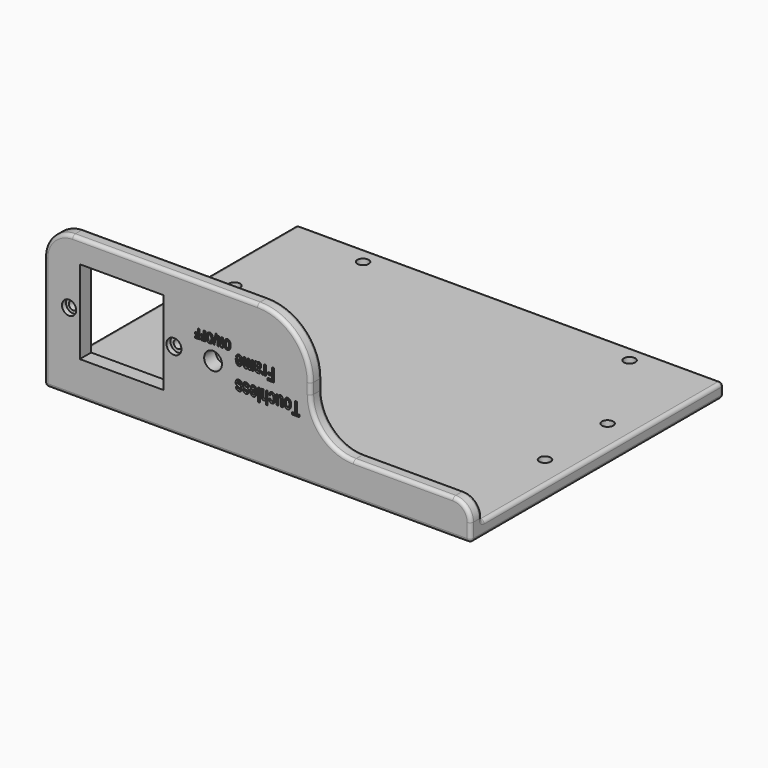
from build123d import *

# Parameters (mm, degrees)
SKETCH_W                      = 120
SKETCH_H                      = 85
PAD_DEPTH                     = 4
SKETCH001_R                   = 1.6
POCKET_DEPTH                  = 4
SKETCH001_MIRRORED_2_R        = 1.6
POCKET_MIRRORED_2_DEPTH       = 4
SKETCH002_R                   = 1.6
POCKET001_DEPTH               = 4
SKETCH002_MIRRORED002_2_R     = 1.6
POCKET001_MIRRORED002_2_DEPTH = 4
SKETCH003_W                   = 75
SKETCH003_H                   = 4
PAD001_DEPTH                  = 40
SKETCH004_W                   = 45
SKETCH004_H                   = 4
PAD002_DEPTH                  = 10
SKETCH005_R                   = 1.2
SKETCH005_W                   = 23.5
SKETCH005_H                   = 23.5
POCKET002_DEPTH               = 4
SKETCH006_R                   = 2
SKETCH006_R_2                 = 2.1
POCKET003_DEPTH               = 1.4
SKETCH007_R                   = 2.5
POCKET004_DEPTH               = 4
POCKET005_DEPTH               = 0.75
POCKET006_DEPTH               = 0.75
FILLET_R                      = 8
FILLET001_R                   = 15
FILLET002_R                   = 12
FILLET003_R                   = 5
FILLET004_R                   = 0.75
FILLET005_R                   = 1


with BuildPart() as part:
    # Sketch → Pad (new body)
    with BuildSketch(Plane.XY):
        with Locations((60, 42.5)):
            Rectangle(SKETCH_W, SKETCH_H)
    extrude(amount=PAD_DEPTH)

    # Sketch001 → Pocket (cut)
    with BuildSketch(Plane.XY):
        with Locations((7.5, 31.5)):
            Circle(SKETCH001_R)
    pocket = extrude(amount=POCKET_DEPTH, mode=Mode.SUBTRACT)

    # Sketch001 Mirrored 2 → Pocket Mirrored 2 (cut)
    with BuildSketch(Plane(origin=(0, 85, 0), x_dir=(1, 0, 0), z_dir=(0, 0, -1))):
        with Locations((7.5, 31.5)):
            Circle(SKETCH001_MIRRORED_2_R)
    pocket_mirrored_2 = extrude(amount=-POCKET_MIRRORED_2_DEPTH, mode=Mode.SUBTRACT)

    # Mirrored001: Pocket, Pocket Mirrored 2 across face of Plane
    add(pocket.mirror(Plane(origin=(60, 47.5, 5), x_dir=(0, 1, 0), z_dir=(1, 0, 0))), mode=Mode.SUBTRACT)
    add(pocket_mirrored_2.mirror(Plane(origin=(60, 47.5, 5), x_dir=(0, 1, 0), z_dir=(1, 0, 0))), mode=Mode.SUBTRACT)

    # Sketch002 → Pocket001 (cut)
    with BuildSketch(Plane.XY):
        with Locations((22.5, 5)):
            Circle(SKETCH002_R)
    pocket001 = extrude(amount=POCKET001_DEPTH, mode=Mode.SUBTRACT)

    # Sketch002 Mirrored002 2 → Pocket001 Mirrored002 2 (cut)
    with BuildSketch(Plane(origin=(0, 85, 0), x_dir=(1, 0, 0), z_dir=(0, 0, -1))):
        with Locations((22.5, 5)):
            Circle(SKETCH002_MIRRORED002_2_R)
    pocket001_mirrored002_2 = extrude(amount=-POCKET001_MIRRORED002_2_DEPTH, mode=Mode.SUBTRACT)

    # Mirrored003: Pocket001, Pocket001 Mirrored002 2 across face of Plane
    add(pocket001.mirror(Plane(origin=(60, 47.5, 5), x_dir=(0, 1, 0), z_dir=(1, 0, 0))), mode=Mode.SUBTRACT)
    add(pocket001_mirrored002_2.mirror(Plane(origin=(60, 47.5, 5), x_dir=(0, 1, 0), z_dir=(1, 0, 0))), mode=Mode.SUBTRACT)

    # Sketch003 → Pad001 (join)
    with BuildSketch(Plane.XY):
        with Locations((37.5, -2)):
            Rectangle(SKETCH003_W, SKETCH003_H)
    extrude(amount=PAD001_DEPTH)

    # Sketch004 → Pad002 (join)
    with BuildSketch(Plane.XY):
        with Locations((97.5, -2)):
            Rectangle(SKETCH004_W, SKETCH004_H)
    extrude(amount=PAD002_DEPTH)

    # Sketch005 → Pocket002 (cut)
    with BuildSketch(Plane.XZ):
        with Locations((36.5, 21.75)):
            Circle(SKETCH005_R)
        with Locations((7, 21.75)):
            Circle(SKETCH005_R)
        with Locations((21.75, 21.75)):
            Rectangle(SKETCH005_W, SKETCH005_H)
    extrude(amount=POCKET002_DEPTH, mode=Mode.SUBTRACT)

    # Sketch006 (on Plane) → Pocket003 (cut)
    with BuildSketch(Plane.ZX.offset(-4)):
        with Locations((21.75, 7)):
            Circle(SKETCH006_R)
        with Locations((21.75, 36.5)):
            Circle(SKETCH006_R_2)
    extrude(amount=POCKET003_DEPTH, mode=Mode.SUBTRACT)

    # Sketch007 → Pocket004 (cut)
    with BuildSketch(Plane.XZ):
        with Locations((47.5, 21.75)):
            Circle(SKETCH007_R)
    extrude(amount=POCKET004_DEPTH, mode=Mode.SUBTRACT)

    # Sketch016 (on Plane) → Pocket005 (cut, symmetric)
    with BuildSketch(Plane.ZX.offset(-4)):
        with BuildLine():
            add(Edge.make_bspline(
                [(25.813458, 43.670307), (25.813458, 42.443481)],
                knots=[0, 0, 5.36916, 5.36916], degree=1))
            add(Edge.make_bspline(
                [(25.813458, 42.443481), (26.323984, 42.443481)],
                knots=[0, 0, 1.503779, 1.503779], degree=1))
            add(Edge.make_bspline(
                [(26.323984, 42.443481), (26.323984, 43.215709)],
                knots=[0, 0, 3.37963, 3.37963], degree=1))
            add(Edge.make_bspline(
                [(26.323984, 43.215709), (26.811703, 43.215709)],
                knots=[0, 0, 1.4366, 1.4366], degree=1))
            add(Edge.make_bspline(
                [(26.811703, 43.215709), (26.811703, 42.489531)],
                knots=[0, 0, 3.17809, 3.17809], degree=1))
            add(Edge.make_bspline(
                [(26.811703, 42.489531), (27.322229, 42.489531)],
                knots=[0, 0, 1.50378, 1.50378], degree=1))
            add(Edge.make_bspline(
                [(27.322229, 42.489531), (27.322229, 43.215709)],
                knots=[0, 0, 3.17809, 3.17809], degree=1))
            add(Edge.make_bspline(
                [(27.322229, 43.215709), (28.432756, 43.215709)],
                knots=[0, 0, 3.271111, 3.271111], degree=1))
            add(Edge.make_bspline(
                [(28.432756, 43.215709), (28.432756, 43.670307)],
                knots=[0, 0, 1.98953, 1.98953], degree=1))
            add(Edge.make_bspline(
                [(28.432756, 43.670307), (25.813458, 43.670307)],
                knots=[0, 0, 7.71527, 7.71527], degree=1))
        make_face()
        with BuildLine():
            add(Edge.make_bspline(
                [(25.76609, 46.572658), (25.76609, 46.147577), (26.127493, 45.9067)],
                knots=[0, 0, 0, 1, 1, 1], degree=2))
            add(Edge.make_bspline(
                [(26.127493, 45.9067), (26.488896, 45.66582), (27.125738, 45.66582)],
                knots=[0, 0, 0, 1, 1, 1], degree=2))
            add(Edge.make_bspline(
                [(27.125738, 45.66582), (27.760825, 45.66582), (28.122229, 45.9067)],
                knots=[0, 0, 0, 1, 1, 1], degree=2))
            add(Edge.make_bspline(
                [(28.122229, 45.9067), (28.483633, 46.147577), (28.483633, 46.572658)],
                knots=[0, 0, 0, 1, 1, 1], degree=2))
            add(Edge.make_bspline(
                [(28.483633, 46.572658), (28.483633, 46.996557), (28.122229, 47.238615)],
                knots=[0, 0, 0, 1, 1, 1], degree=2))
            add(Edge.make_bspline(
                [(28.122229, 47.238615), (27.760825, 47.479495), (27.125738, 47.479495)],
                knots=[0, 0, 0, 1, 1, 1], degree=2))
            add(Edge.make_bspline(
                [(27.125738, 47.479495), (26.488896, 47.479495), (26.127493, 47.238615)],
                knots=[0, 0, 0, 1, 1, 1], degree=2))
            add(Edge.make_bspline(
                [(26.127493, 47.238615), (25.76609, 46.996557), (25.76609, 46.572658)],
                knots=[0, 0, 0, 1, 1, 1], degree=2))
        make_face()
        with BuildLine():
            add(Edge.make_bspline(
                [(26.255563, 46.572658), (26.255563, 46.780474), (26.483633, 46.895009)],
                knots=[0, 0, 0, 1, 1, 1], degree=2))
            add(Edge.make_bspline(
                [(26.483633, 46.895009), (26.711703, 47.009545), (27.125738, 47.009545)],
                knots=[0, 0, 0, 1, 1, 1], degree=2))
            add(Edge.make_bspline(
                [(27.125738, 47.009545), (27.538019, 47.009545), (27.766089, 46.895009)],
                knots=[0, 0, 0, 1, 1, 1], degree=2))
            add(Edge.make_bspline(
                [(27.766089, 46.895009), (27.994159, 46.780474), (27.994159, 46.572658)],
                knots=[0, 0, 0, 1, 1, 1], degree=2))
            add(Edge.make_bspline(
                [(27.994159, 46.572658), (27.994159, 46.36366), (27.766089, 46.249125)],
                knots=[0, 0, 0, 1, 1, 1], degree=2))
            add(Edge.make_bspline(
                [(27.766089, 46.249125), (27.538019, 46.134589), (27.125738, 46.134589)],
                knots=[0, 0, 0, 1, 1, 1], degree=2))
            add(Edge.make_bspline(
                [(27.125738, 46.134589), (26.711703, 46.134589), (26.483633, 46.249125)],
                knots=[0, 0, 0, 1, 1, 1], degree=2))
            add(Edge.make_bspline(
                [(26.483633, 46.249125), (26.255563, 46.36366), (26.255563, 46.572658)],
                knots=[0, 0, 0, 1, 1, 1], degree=2))
        make_face(mode=Mode.SUBTRACT)
        with BuildLine():
            add(Edge.make_bspline(
                [(25.813458, 47.862066), (25.813458, 47.599935)],
                knots=[0, 0, 1.14721, 1.14721], degree=1))
            add(Edge.make_bspline(
                [(25.813458, 47.599935), (28.76609, 48.222202)],
                knots=[0, 0, 9.11353, 9.11353], degree=1))
            add(Edge.make_bspline(
                [(28.76609, 48.222202), (28.76609, 48.483155)],
                knots=[0, 0, 1.14205, 1.14205], degree=1))
            add(Edge.make_bspline(
                [(28.76609, 48.483155), (25.813458, 47.862066)],
                knots=[0, 0, 9.111989, 9.111989], degree=1))
        make_face()
        with BuildLine():
            add(Edge.make_bspline(
                [(25.813458, 45.323395), (25.813458, 44.096569)],
                knots=[0, 0, 5.36916, 5.36916], degree=1))
            add(Edge.make_bspline(
                [(25.813458, 44.096569), (26.323984, 44.096569)],
                knots=[0, 0, 1.503779, 1.503779], degree=1))
            add(Edge.make_bspline(
                [(26.323984, 44.096569), (26.323984, 44.868795)],
                knots=[0, 0, 3.37962, 3.37962], degree=1))
            add(Edge.make_bspline(
                [(26.323984, 44.868795), (26.811703, 44.868795)],
                knots=[0, 0, 1.4366, 1.4366], degree=1))
            add(Edge.make_bspline(
                [(26.811703, 44.868795), (26.811703, 44.142618)],
                knots=[0, 0, 3.17809, 3.17809], degree=1))
            add(Edge.make_bspline(
                [(26.811703, 44.142618), (27.322229, 44.142618)],
                knots=[0, 0, 1.50378, 1.50378], degree=1))
            add(Edge.make_bspline(
                [(27.322229, 44.142618), (27.322229, 44.868795)],
                knots=[0, 0, 3.17809, 3.17809], degree=1))
            add(Edge.make_bspline(
                [(27.322229, 44.868795), (28.432756, 44.868795)],
                knots=[0, 0, 3.271111, 3.271111], degree=1))
            add(Edge.make_bspline(
                [(28.432756, 44.868795), (28.432756, 45.323395)],
                knots=[0, 0, 1.98954, 1.98954], degree=1))
            add(Edge.make_bspline(
                [(28.432756, 45.323395), (25.813458, 45.323395)],
                knots=[0, 0, 7.71527, 7.71527], degree=1))
        make_face()
        with BuildLine():
            add(Edge.make_bspline(
                [(25.813458, 50.287382), (25.813458, 49.779648)],
                knots=[0, 0, 2.222079, 2.222079], degree=1))
            add(Edge.make_bspline(
                [(25.813458, 49.779648), (27.609948, 49.138486)],
                knots=[0, 0, 5.9896, 5.9896], degree=1))
            add(Edge.make_bspline(
                [(27.609948, 49.138486), (25.813458, 49.138486)],
                knots=[0, 0, 5.291649, 5.291649], degree=1))
            add(Edge.make_bspline(
                [(25.813458, 49.138486), (25.813458, 48.707502)],
                knots=[0, 0, 1.886183, 1.886183], degree=1))
            add(Edge.make_bspline(
                [(25.813458, 48.707502), (28.432756, 48.707502)],
                knots=[0, 0, 7.71527, 7.71527], degree=1))
            add(Edge.make_bspline(
                [(28.432756, 48.707502), (28.432756, 49.215236)],
                knots=[0, 0, 2.222078, 2.222078], degree=1))
            add(Edge.make_bspline(
                [(28.432756, 49.215236), (26.636265, 49.856398)],
                knots=[0, 0, 5.989604, 5.989604], degree=1))
            add(Edge.make_bspline(
                [(26.636265, 49.856398), (28.432756, 49.856398)],
                knots=[0, 0, 5.291653, 5.291653], degree=1))
            add(Edge.make_bspline(
                [(28.432756, 49.856398), (28.432756, 50.287382)],
                knots=[0, 0, 1.886183, 1.886183], degree=1))
            add(Edge.make_bspline(
                [(28.432756, 50.287382), (25.813458, 50.287382)],
                knots=[0, 0, 7.71527, 7.71527], degree=1))
        make_face()
        with BuildLine():
            add(Edge.make_bspline(
                [(25.76609, 51.536644), (25.76609, 51.111564), (26.127493, 50.870686)],
                knots=[0, 0, 0, 1, 1, 1], degree=2))
            add(Edge.make_bspline(
                [(26.127493, 50.870686), (26.488896, 50.629807), (27.125738, 50.629807)],
                knots=[0, 0, 0, 1, 1, 1], degree=2))
            add(Edge.make_bspline(
                [(27.125738, 50.629807), (27.760825, 50.629807), (28.122229, 50.870686)],
                knots=[0, 0, 0, 1, 1, 1], degree=2))
            add(Edge.make_bspline(
                [(28.122229, 50.870686), (28.483633, 51.111564), (28.483633, 51.536644)],
                knots=[0, 0, 0, 1, 1, 1], degree=2))
            add(Edge.make_bspline(
                [(28.483633, 51.536644), (28.483633, 51.960543), (28.122229, 52.202602)],
                knots=[0, 0, 0, 1, 1, 1], degree=2))
            add(Edge.make_bspline(
                [(28.122229, 52.202602), (27.760825, 52.443481), (27.125738, 52.443481)],
                knots=[0, 0, 0, 1, 1, 1], degree=2))
            add(Edge.make_bspline(
                [(27.125738, 52.443481), (26.488896, 52.443481), (26.127493, 52.202602)],
                knots=[0, 0, 0, 1, 1, 1], degree=2))
            add(Edge.make_bspline(
                [(26.127493, 52.202602), (25.76609, 51.960543), (25.76609, 51.536644)],
                knots=[0, 0, 0, 1, 1, 1], degree=2))
        make_face()
        with BuildLine():
            add(Edge.make_bspline(
                [(26.255563, 51.536644), (26.255563, 51.744461), (26.483633, 51.858996)],
                knots=[0, 0, 0, 1, 1, 1], degree=2))
            add(Edge.make_bspline(
                [(26.483633, 51.858996), (26.711703, 51.973531), (27.125738, 51.973531)],
                knots=[0, 0, 0, 1, 1, 1], degree=2))
            add(Edge.make_bspline(
                [(27.125738, 51.973531), (27.538019, 51.973531), (27.766089, 51.858996)],
                knots=[0, 0, 0, 1, 1, 1], degree=2))
            add(Edge.make_bspline(
                [(27.766089, 51.858996), (27.994159, 51.744461), (27.994159, 51.536644)],
                knots=[0, 0, 0, 1, 1, 1], degree=2))
            add(Edge.make_bspline(
                [(27.994159, 51.536644), (27.994159, 51.327646), (27.766089, 51.213111)],
                knots=[0, 0, 0, 1, 1, 1], degree=2))
            add(Edge.make_bspline(
                [(27.766089, 51.213111), (27.538019, 51.098576), (27.125738, 51.098576)],
                knots=[0, 0, 0, 1, 1, 1], degree=2))
            add(Edge.make_bspline(
                [(27.125738, 51.098576), (26.711703, 51.098576), (26.483633, 51.213111)],
                knots=[0, 0, 0, 1, 1, 1], degree=2))
            add(Edge.make_bspline(
                [(26.483633, 51.213111), (26.255563, 51.327646), (26.255563, 51.536644)],
                knots=[0, 0, 0, 1, 1, 1], degree=2))
        make_face(mode=Mode.SUBTRACT)
    extrude(amount=POCKET005_DEPTH, both=True, mode=Mode.SUBTRACT)

    # Sketch035 (on Plane) → Pocket006 (cut, symmetric)
    with BuildSketch(Plane.ZX.offset(-4)):
        with BuildLine():
            add(Edge.make_bspline(
                [(16.309168, 70.507222), (19.32615, 70.507222)],
                knots=[0, 0, 3.0385, 3.0385], degree=1))
            add(Edge.make_bspline(
                [(19.32615, 70.507222), (19.32615, 71.05441)],
                knots=[0, 0, 0.7546, 0.7546], degree=1))
            add(Edge.make_bspline(
                [(19.32615, 71.05441), (16.309168, 71.05441)],
                knots=[0, 0, 3.0385, 3.0385], degree=1))
            add(Edge.make_bspline(
                [(16.309168, 71.05441), (16.309168, 71.860594)],
                knots=[0, 0, 1.11177, 1.11177], degree=1))
            add(Edge.make_bspline(
                [(16.309168, 71.860594), (15.684792, 71.860594)],
                knots=[0, 0, 0.628829, 0.628829], degree=1))
            add(Edge.make_bspline(
                [(15.684792, 71.860594), (15.684792, 69.730224)],
                knots=[0, 0, 2.93789, 2.93789], degree=1))
            add(Edge.make_bspline(
                [(15.684792, 69.730224), (16.309168, 69.730224)],
                knots=[0, 0, 0.628829, 0.628829], degree=1))
            add(Edge.make_bspline(
                [(16.309168, 69.730224), (16.309168, 70.507222)],
                knots=[0, 0, 1.07152, 1.07152], degree=1))
        make_face()
        with BuildLine():
            add(Edge.make_bspline(
                [(24.001474, 64.091726), (25.569905, 64.091726)],
                knots=[0, 0, 1.579618, 1.579618], degree=1))
            add(Edge.make_bspline(
                [(25.569905, 64.091726), (25.569905, 64.63891)],
                knots=[0, 0, 0.754594, 0.754594], degree=1))
            add(Edge.make_bspline(
                [(25.569905, 64.63891), (21.928547, 64.63891)],
                knots=[0, 0, 3.66733, 3.66733], degree=1))
            add(Edge.make_bspline(
                [(21.928547, 64.63891), (21.928547, 62.77119)],
                knots=[0, 0, 2.575682, 2.575682], degree=1))
            add(Edge.make_bspline(
                [(21.928547, 62.77119), (22.552922, 62.77119)],
                knots=[0, 0, 0.628829, 0.628829], degree=1))
            add(Edge.make_bspline(
                [(22.552922, 62.77119), (22.552922, 64.091726)],
                knots=[0, 0, 1.821088, 1.821088], degree=1))
            add(Edge.make_bspline(
                [(22.552922, 64.091726), (23.377098, 64.091726)],
                knots=[0, 0, 0.830054, 0.830054], degree=1))
            add(Edge.make_bspline(
                [(23.377098, 64.091726), (23.377098, 62.928049)],
                knots=[0, 0, 1.604771, 1.604771], degree=1))
            add(Edge.make_bspline(
                [(23.377098, 62.928049), (24.001474, 62.928049)],
                knots=[0, 0, 0.628829, 0.628829], degree=1))
            add(Edge.make_bspline(
                [(24.001474, 62.928049), (24.001474, 64.091726)],
                knots=[0, 0, 1.604771, 1.604771], degree=1))
        make_face()
        with BuildLine():
            add(Edge.make_bspline(
                [(22.827648, 54.803), (22.827648, 54.675323), (22.867603, 54.554943)],
                knots=[0, 0, 0, 1, 1, 1], degree=2))
            add(Edge.make_bspline(
                [(22.867603, 54.554943), (22.907558, 54.434563), (23.012458, 54.310534)],
                knots=[0, 0, 0, 1, 1, 1], degree=2))
            add(Edge.make_bspline(
                [(23.012458, 54.310534), (23.117353, 54.182858), (23.282188, 54.091661)],
                knots=[0, 0, 0, 1, 1, 1], degree=2))
            add(Edge.make_bspline(
                [(23.282188, 54.091661), (23.442028, 53.996816), (23.711758, 53.93845)],
                knots=[0, 0, 0, 1, 1, 1], degree=2))
            add(Edge.make_bspline(
                [(23.711758, 53.93845), (23.976494, 53.880083), (24.321149, 53.880083)],
                knots=[0, 0, 0, 1, 1, 1], degree=2))
            add(Edge.make_bspline(
                [(24.321149, 53.880083), (24.381091, 53.880083), (24.441029, 53.883709)],
                knots=[0, 0, 0, 1, 1, 1], degree=2))
            add(Edge.make_bspline(
                [(24.441029, 53.883709), (24.441029, 55.204245)],
                knots=[0, 0, 1.821088, 1.821088], degree=1))
            add(Edge.make_bspline(
                [(24.441029, 55.204245), (24.595875, 55.20062), (24.710759, 55.186008)],
                knots=[0, 0, 0, 1, 1, 1], degree=2))
            add(Edge.make_bspline(
                [(24.710759, 55.186008), (24.820649, 55.167771), (24.93054, 55.127642)],
                knots=[0, 0, 0, 1, 1, 1], degree=2))
            add(Edge.make_bspline(
                [(24.93054, 55.127642), (25.035434, 55.083866), (25.095375, 55.003613)],
                knots=[0, 0, 0, 1, 1, 1], degree=2))
            add(Edge.make_bspline(
                [(25.095375, 55.003613), (25.150323, 54.919712), (25.150323, 54.795683)],
                knots=[0, 0, 0, 1, 1, 1], degree=2))
            add(Edge.make_bspline(
                [(25.150323, 54.795683), (25.150323, 54.503853), (24.810663, 54.405359)],
                knots=[0, 0, 0, 1, 1, 1], degree=2))
            add(Edge.make_bspline(
                [(24.810663, 54.405359), (24.810663, 53.901951)],
                knots=[0, 0, 0.694227, 0.694227], degree=1))
            add(Edge.make_bspline(
                [(24.810663, 53.901951), (25.210263, 53.985852), (25.450023, 54.233908)],
                knots=[0, 0, 0, 1, 1, 1], degree=2))
            add(Edge.make_bspline(
                [(25.450023, 54.233908), (25.684788, 54.481965), (25.684788, 54.813923)],
                knots=[0, 0, 0, 1, 1, 1], degree=2))
            add(Edge.make_bspline(
                [(25.684788, 54.813923), (25.684788, 55.233431), (25.315158, 55.474191)],
                knots=[0, 0, 0, 1, 1, 1], degree=2))
            add(Edge.make_bspline(
                [(25.315158, 55.474191), (24.940532, 55.714952), (24.291183, 55.714952)],
                knots=[0, 0, 0, 1, 1, 1], degree=2))
            add(Edge.make_bspline(
                [(24.291183, 55.714952), (23.611862, 55.714952), (23.222252, 55.470544)],
                knots=[0, 0, 0, 1, 1, 1], degree=2))
            add(Edge.make_bspline(
                [(23.222252, 55.470544), (22.827646, 55.226135), (22.827646, 54.80298)],
                knots=[0, 0, 0, 1, 1, 1], degree=2))
            add(Edge.make_bspline(
                [(22.827646, 54.80298), (22.827648, 54.803)],
                knots=[0, 0, 2.8e-05, 2.8e-05], degree=1))
        make_face()
        with BuildLine():
            add(Edge.make_bspline(
                [(23.976499, 54.412675), (23.681794, 54.430913), (23.521953, 54.533056)],
                knots=[0, 0, 0, 1, 1, 1], degree=2))
            add(Edge.make_bspline(
                [(23.521953, 54.533056), (23.362113, 54.631549), (23.362113, 54.810296)],
                knots=[0, 0, 0, 1, 1, 1], degree=2))
            add(Edge.make_bspline(
                [(23.362113, 54.810296), (23.362113, 55.145902), (23.976499, 55.196972)],
                knots=[0, 0, 0, 1, 1, 1], degree=2))
            add(Edge.make_bspline(
                [(23.976499, 55.196972), (23.976499, 54.412675)],
                knots=[0, 0, 1.081586, 1.081586], degree=1))
        make_face(mode=Mode.SUBTRACT)
        with BuildLine():
            add(Edge.make_bspline(
                [(16.583892, 68.502598), (16.583892, 68.039313), (16.968508, 67.783961)],
                knots=[0, 0, 0, 1, 1, 1], degree=2))
            add(Edge.make_bspline(
                [(16.968508, 67.783961), (17.348129, 67.524961), (18.032444, 67.524961)],
                knots=[0, 0, 0, 1, 1, 1], degree=2))
            add(Edge.make_bspline(
                [(18.032444, 67.524961), (18.681794, 67.524961), (19.061415, 67.787609)],
                knots=[0, 0, 0, 1, 1, 1], degree=2))
            add(Edge.make_bspline(
                [(19.061415, 67.787609), (19.441035, 68.050257), (19.441035, 68.498951)],
                knots=[0, 0, 0, 1, 1, 1], degree=2))
            add(Edge.make_bspline(
                [(19.441035, 68.498951), (19.441035, 68.954931), (19.061415, 69.213935)],
                knots=[0, 0, 0, 1, 1, 1], degree=2))
            add(Edge.make_bspline(
                [(19.061415, 69.213935), (18.676799, 69.472932), (18.012463, 69.472932)],
                knots=[0, 0, 0, 1, 1, 1], degree=2))
            add(Edge.make_bspline(
                [(18.012463, 69.472932), (17.348129, 69.472932), (16.968508, 69.213935)],
                knots=[0, 0, 0, 1, 1, 1], degree=2))
            add(Edge.make_bspline(
                [(16.968508, 69.213935), (16.583892, 68.954931), (16.583892, 68.502598)],
                knots=[0, 0, 0, 1, 1, 1], degree=2))
        make_face()
        with BuildLine():
            add(Edge.make_bspline(
                [(17.148328, 68.498973), (17.148328, 68.706898), (17.388089, 68.834573)],
                knots=[0, 0, 0, 1, 1, 1], degree=2))
            add(Edge.make_bspline(
                [(17.388089, 68.834573), (17.627849, 68.962255), (18.012463, 68.962255)],
                knots=[0, 0, 0, 1, 1, 1], degree=2))
            add(Edge.make_bspline(
                [(18.012463, 68.962255), (18.397079, 68.962255), (18.636839, 68.834573)],
                knots=[0, 0, 0, 1, 1, 1], degree=2))
            add(Edge.make_bspline(
                [(18.636839, 68.834573), (18.876599, 68.706898), (18.876599, 68.498973)],
                knots=[0, 0, 0, 1, 1, 1], degree=2))
            add(Edge.make_bspline(
                [(18.876599, 68.498973), (18.876599, 68.294687), (18.641835, 68.167013)],
                knots=[0, 0, 0, 1, 1, 1], degree=2))
            add(Edge.make_bspline(
                [(18.641835, 68.167013), (18.402075, 68.035688), (18.022454, 68.035688)],
                knots=[0, 0, 0, 1, 1, 1], degree=2))
            add(Edge.make_bspline(
                [(18.022454, 68.035688), (17.622853, 68.035688), (17.388089, 68.163365)],
                knots=[0, 0, 0, 1, 1, 1], degree=2))
            add(Edge.make_bspline(
                [(17.388089, 68.163365), (17.148328, 68.287393), (17.148328, 68.498973)],
                knots=[0, 0, 0, 1, 1, 1], degree=2))
        make_face(mode=Mode.SUBTRACT)
        with BuildLine():
            add(Edge.make_bspline(
                [(15.684792, 60.15742), (19.32615, 60.15742)],
                knots=[0, 0, 3.667329, 3.667329], degree=1))
            add(Edge.make_bspline(
                [(19.32615, 60.15742), (19.32615, 60.668124)],
                knots=[0, 0, 0.704288, 0.704288], degree=1))
            add(Edge.make_bspline(
                [(19.32615, 60.668124), (15.684792, 60.668124)],
                knots=[0, 0, 3.667329, 3.667329], degree=1))
            add(Edge.make_bspline(
                [(15.684792, 60.668124), (15.684792, 60.15742)],
                knots=[0, 0, 0.704288, 0.704288], degree=1))
        make_face()
        with BuildLine():
            add(Edge.make_bspline(
                [(25.68479, 60.446059), (25.68479, 60.716003), (25.465011, 60.880158)],
                knots=[0, 0, 0, 1, 1, 1], degree=2))
            add(Edge.make_bspline(
                [(25.465011, 60.880158), (25.240235, 61.044312), (24.875599, 61.044312)],
                knots=[0, 0, 0, 1, 1, 1], degree=2))
            add(Edge.make_bspline(
                [(24.875599, 61.044312), (24.161314, 61.044312), (24.026449, 60.464298)],
                knots=[0, 0, 0, 1, 1, 1], degree=2))
            add(Edge.make_bspline(
                [(24.026449, 60.464298), (23.976495, 60.260016)],
                knots=[0, 0, 0.286172, 0.286172], degree=1))
            add(Edge.make_bspline(
                [(23.976495, 60.260016), (23.976495, 60.252721), (23.966506, 60.187058)],
                knots=[0, 0, 0, 1, 1, 1], degree=2))
            add(Edge.make_bspline(
                [(23.966506, 60.187058), (23.951523, 60.121397), (23.946529, 60.103157)],
                knots=[0, 0, 0, 1, 1, 1], degree=2))
            add(Edge.make_bspline(
                [(23.946529, 60.103157), (23.93654, 60.08492), (23.921557, 60.033848)],
                knots=[0, 0, 0, 1, 1, 1], degree=2))
            add(Edge.make_bspline(
                [(23.921557, 60.033848), (23.906574, 59.97913), (23.886596, 59.957243)],
                knots=[0, 0, 0, 1, 1, 1], degree=2))
            add(Edge.make_bspline(
                [(23.886596, 59.957243), (23.866619, 59.935358), (23.836643, 59.906172)],
                knots=[0, 0, 0, 1, 1, 1], degree=2))
            add(Edge.make_bspline(
                [(23.836643, 59.906172), (23.801682, 59.873337), (23.761717, 59.862395)],
                knots=[0, 0, 0, 1, 1, 1], degree=2))
            add(Edge.make_bspline(
                [(23.761717, 59.862395), (23.716758, 59.851453), (23.661816, 59.851453)],
                knots=[0, 0, 0, 1, 1, 1], degree=2))
            add(Edge.make_bspline(
                [(23.661816, 59.851453), (23.392086, 59.851453), (23.392086, 60.146932)],
                knots=[0, 0, 0, 1, 1, 1], degree=2))
            add(Edge.make_bspline(
                [(23.392086, 60.146932), (23.392086, 60.336622), (23.472006, 60.413228)],
                knots=[0, 0, 0, 1, 1, 1], degree=2))
            add(Edge.make_bspline(
                [(23.472006, 60.413228), (23.551926, 60.489834), (23.761717, 60.508074)],
                knots=[0, 0, 0, 1, 1, 1], degree=2))
            add(Edge.make_bspline(
                [(23.761717, 60.508074), (23.761717, 61.000539)],
                knots=[0, 0, 0.679135, 0.679135], degree=1))
            add(Edge.make_bspline(
                [(23.761717, 61.000539), (22.827651, 60.953115), (22.827651, 60.157876)],
                knots=[0, 0, 0, 1, 1, 1], degree=2))
            add(Edge.make_bspline(
                [(22.827651, 60.157876), (22.827651, 59.351692), (23.656821, 59.351692)],
                knots=[0, 0, 0, 1, 1, 1], degree=2))
            add(Edge.make_bspline(
                [(23.656821, 59.351692), (25.155323, 59.351692)],
                knots=[0, 0, 1.50919, 1.50919], degree=1))
            add(Edge.make_bspline(
                [(25.155323, 59.351692), (25.340138, 59.351692), (25.484993, 59.23496)],
                knots=[0, 0, 0, 1, 1, 1], degree=2))
            add(Edge.make_bspline(
                [(25.484993, 59.23496), (25.569907, 59.23496)],
                knots=[0, 0, 0.08552, 0.08552], degree=1))
            add(Edge.make_bspline(
                [(25.569907, 59.23496), (25.569907, 59.789439)],
                knots=[0, 0, 0.764656, 0.764656], degree=1))
            add(Edge.make_bspline(
                [(25.569907, 59.789439), (25.470007, 59.847805), (25.300177, 59.847805)],
                knots=[0, 0, 0, 1, 1, 1], degree=2))
            add(Edge.make_bspline(
                [(25.300177, 59.847805), (25.684792, 60.117749), (25.684792, 60.446059)],
                knots=[0, 0, 0, 1, 1, 1], degree=2))
            add(Edge.make_bspline(
                [(25.684792, 60.446059), (25.68479, 60.446059)],
                knots=[0, 0, 2e-06, 2e-06], degree=1))
        make_face()
        with BuildLine():
            add(Edge.make_bspline(
                [(24.485989, 59.851452), (24.296179, 59.851452)],
                knots=[0, 0, 0.191164, 0.191164], degree=1))
            add(Edge.make_bspline(
                [(24.296179, 59.851452), (24.341138, 59.920761), (24.381093, 60.066678)],
                knots=[0, 0, 0, 1, 1, 1], degree=2))
            add(Edge.make_bspline(
                [(24.381093, 60.066678), (24.426053, 60.241777)],
                knots=[0, 0, 0.24568, 0.24568], degree=1))
            add(Edge.make_bspline(
                [(24.426053, 60.241777), (24.471012, 60.402284), (24.555922, 60.467946)],
                knots=[0, 0, 0, 1, 1, 1], degree=2))
            add(Edge.make_bspline(
                [(24.555922, 60.467946), (24.640837, 60.533607), (24.795682, 60.533607)],
                knots=[0, 0, 0, 1, 1, 1], degree=2))
            add(Edge.make_bspline(
                [(24.795682, 60.533607), (24.945533, 60.533607), (25.035442, 60.46065)],
                knots=[0, 0, 0, 1, 1, 1], degree=2))
            add(Edge.make_bspline(
                [(25.035442, 60.46065), (25.120357, 60.384043), (25.120357, 60.256367)],
                knots=[0, 0, 0, 1, 1, 1], degree=2))
            add(Edge.make_bspline(
                [(25.120357, 60.256367), (25.120357, 60.063029), (24.955521, 59.957241)],
                knots=[0, 0, 0, 1, 1, 1], degree=2))
            add(Edge.make_bspline(
                [(24.955521, 59.957241), (24.790687, 59.851451), (24.485991, 59.851451)],
                knots=[0, 0, 0, 1, 1, 1], degree=2))
            add(Edge.make_bspline(
                [(24.485991, 59.851451), (24.485989, 59.851452)],
                knots=[0, 0, 2e-06, 2e-06], degree=1))
        make_face(mode=Mode.SUBTRACT)
        with BuildLine():
            add(Edge.make_bspline(
                [(18.541934, 57.182507), (18.711765, 57.156975), (18.801674, 57.080366)],
                knots=[0, 0, 0, 1, 1, 1], degree=2))
            add(Edge.make_bspline(
                [(18.801674, 57.080366), (18.891583, 57.000113), (18.891583, 56.781239)],
                knots=[0, 0, 0, 1, 1, 1], degree=2))
            add(Edge.make_bspline(
                [(18.891583, 56.781239), (18.891583, 56.602492), (18.821652, 56.503999)],
                knots=[0, 0, 0, 1, 1, 1], degree=2))
            add(Edge.make_bspline(
                [(18.821652, 56.503999), (18.751721, 56.401859), (18.626846, 56.401859)],
                knots=[0, 0, 0, 1, 1, 1], degree=2))
            add(Edge.make_bspline(
                [(18.626846, 56.401859), (18.546926, 56.401859), (18.496977, 56.441988)],
                knots=[0, 0, 0, 1, 1, 1], degree=2))
            add(Edge.make_bspline(
                [(18.496977, 56.441988), (18.447023, 56.478469), (18.407068, 56.573311)],
                knots=[0, 0, 0, 1, 1, 1], degree=2))
            add(Edge.make_bspline(
                [(18.407068, 56.573311), (18.147327, 57.18251)],
                knots=[0, 0, 0.879901, 0.879901], degree=1))
            add(Edge.make_bspline(
                [(18.147327, 57.18251), (18.147327, 57.186135), (18.132344, 57.226286)],
                knots=[0, 0, 0, 1, 1, 1], degree=2))
            add(Edge.make_bspline(
                [(18.132344, 57.226286), (18.112367, 57.266415), (18.102378, 57.284652)],
                knots=[0, 0, 0, 1, 1, 1], degree=2))
            add(Edge.make_bspline(
                [(18.102378, 57.284652), (18.092389, 57.299242), (18.072412, 57.343018)],
                knots=[0, 0, 0, 1, 1, 1], degree=2))
            add(Edge.make_bspline(
                [(18.072412, 57.343018), (18.04744, 57.386795), (18.022458, 57.412327)],
                knots=[0, 0, 0, 1, 1, 1], degree=2))
            add(Edge.make_bspline(
                [(18.022458, 57.412327), (17.997486, 57.434212), (17.962516, 57.470693)],
                knots=[0, 0, 0, 1, 1, 1], degree=2))
            add(Edge.make_bspline(
                [(17.962516, 57.470693), (17.922561, 57.507175), (17.877601, 57.529059)],
                knots=[0, 0, 0, 1, 1, 1], degree=2))
            add(Edge.make_bspline(
                [(17.877601, 57.529059), (17.832642, 57.547297), (17.777702, 57.569188)],
                knots=[0, 0, 0, 1, 1, 1], degree=2))
            add(Edge.make_bspline(
                [(17.777702, 57.569188), (17.717759, 57.591073), (17.642837, 57.602023)],
                knots=[0, 0, 0, 1, 1, 1], degree=2))
            add(Edge.make_bspline(
                [(17.642837, 57.602023), (17.567911, 57.612965), (17.482997, 57.612965)],
                knots=[0, 0, 0, 1, 1, 1], degree=2))
            add(Edge.make_bspline(
                [(17.482997, 57.612965), (17.068411, 57.612965), (16.828651, 57.397739)],
                knots=[0, 0, 0, 1, 1, 1], degree=2))
            add(Edge.make_bspline(
                [(16.828651, 57.397739), (16.583895, 57.178866), (16.583895, 56.803133)],
                knots=[0, 0, 0, 1, 1, 1], degree=2))
            add(Edge.make_bspline(
                [(16.583895, 56.803133), (16.583895, 56.405513), (16.828651, 56.179344)],
                knots=[0, 0, 0, 1, 1, 1], degree=2))
            add(Edge.make_bspline(
                [(16.828651, 56.179344), (17.068411, 55.953174), (17.497982, 55.945879)],
                knots=[0, 0, 0, 1, 1, 1], degree=2))
            add(Edge.make_bspline(
                [(17.497982, 55.945879), (17.497982, 56.438344)],
                knots=[0, 0, 0.679135, 0.679135], degree=1))
            add(Edge.make_bspline(
                [(17.497982, 56.438344), (17.133346, 56.44197), (17.133346, 56.806781)],
                knots=[0, 0, 0, 1, 1, 1], degree=2))
            add(Edge.make_bspline(
                [(17.133346, 56.806781), (17.133346, 56.941753), (17.203278, 57.022007)],
                knots=[0, 0, 0, 1, 1, 1], degree=2))
            add(Edge.make_bspline(
                [(17.203278, 57.022007), (17.268215, 57.10226), (17.383098, 57.10226)],
                knots=[0, 0, 0, 1, 1, 1], degree=2))
            add(Edge.make_bspline(
                [(17.383098, 57.10226), (17.463018, 57.10226), (17.507974, 57.065779)],
                knots=[0, 0, 0, 1, 1, 1], degree=2))
            add(Edge.make_bspline(
                [(17.507974, 57.065779), (17.547929, 57.029297), (17.592888, 56.923511)],
                knots=[0, 0, 0, 1, 1, 1], degree=2))
            add(Edge.make_bspline(
                [(17.592888, 56.923511), (17.847633, 56.277834)],
                knots=[0, 0, 0.926647, 0.926647], degree=1))
            add(Edge.make_bspline(
                [(17.847633, 56.277834), (18.002478, 55.891159), (18.526953, 55.891159)],
                knots=[0, 0, 0, 1, 1, 1], degree=2))
            add(Edge.make_bspline(
                [(18.526953, 55.891159), (18.681798, 55.891159), (18.831649, 55.931288)],
                knots=[0, 0, 0, 1, 1, 1], degree=2))
            add(Edge.make_bspline(
                [(18.831649, 55.931288), (18.976504, 55.971417), (19.121358, 56.062612)],
                knots=[0, 0, 0, 1, 1, 1], degree=2))
            add(Edge.make_bspline(
                [(19.121358, 56.062612), (19.266214, 56.150161), (19.351129, 56.328908)],
                knots=[0, 0, 0, 1, 1, 1], degree=2))
            add(Edge.make_bspline(
                [(19.351129, 56.328908), (19.441037, 56.507655), (19.441037, 56.752063)],
                knots=[0, 0, 0, 1, 1, 1], degree=2))
            add(Edge.make_bspline(
                [(19.441037, 56.752063), (19.441037, 57.660388), (18.541936, 57.682276)],
                knots=[0, 0, 0, 1, 1, 1], degree=2))
            add(Edge.make_bspline(
                [(18.541936, 57.682276), (18.541934, 57.182507)],
                knots=[0, 0, 0.689206, 0.689206], degree=1))
        make_face()
        with BuildLine():
            add(Edge.make_bspline(
                [(22.872603, 62.385197), (22.872603, 61.874493)],
                knots=[0, 0, 0.704288, 0.704288], degree=1))
            add(Edge.make_bspline(
                [(22.872603, 61.874493), (23.402073, 61.874493)],
                knots=[0, 0, 0.533246, 0.533246], degree=1))
            add(Edge.make_bspline(
                [(23.402073, 61.874493), (23.127348, 61.794239), (22.977498, 61.648324)],
                knots=[0, 0, 0, 1, 1, 1], degree=2))
            add(Edge.make_bspline(
                [(22.977498, 61.648324), (22.827648, 61.502408), (22.827648, 61.327309)],
                knots=[0, 0, 0, 1, 1, 1], degree=2))
            add(Edge.make_bspline(
                [(22.827648, 61.327309), (22.827648, 61.294475), (22.832613, 61.265295)],
                knots=[0, 0, 0, 1, 1, 1], degree=2))
            add(Edge.make_bspline(
                [(22.832613, 61.265295), (23.541903, 61.265295)],
                knots=[0, 0, 0.714349, 0.714349], degree=1))
            add(Edge.make_bspline(
                [(23.541903, 61.265295), (23.521925, 61.356493), (23.521925, 61.425803)],
                knots=[0, 0, 0, 1, 1, 1], degree=2))
            add(Edge.make_bspline(
                [(23.521925, 61.425803), (23.521925, 61.874494), (24.136311, 61.874494)],
                knots=[0, 0, 0, 1, 1, 1], degree=2))
            add(Edge.make_bspline(
                [(24.136311, 61.874494), (25.569878, 61.874494)],
                knots=[0, 0, 1.443791, 1.443791], degree=1))
            add(Edge.make_bspline(
                [(25.569878, 61.874494), (25.569878, 62.385198)],
                knots=[0, 0, 0.704288, 0.704288], degree=1))
            add(Edge.make_bspline(
                [(25.569878, 62.385198), (22.872603, 62.385197)],
                knots=[0, 0, 2.716512, 2.716512], degree=1))
        make_face()
        with BuildLine():
            add(Edge.make_bspline(
                [(16.583892, 58.864129), (16.583892, 58.736453), (16.623847, 58.616072)],
                knots=[0, 0, 0, 1, 1, 1], degree=2))
            add(Edge.make_bspline(
                [(16.623847, 58.616072), (16.663802, 58.495692), (16.768703, 58.371664)],
                knots=[0, 0, 0, 1, 1, 1], degree=2))
            add(Edge.make_bspline(
                [(16.768703, 58.371664), (16.873598, 58.243988), (17.038433, 58.15279)],
                knots=[0, 0, 0, 1, 1, 1], degree=2))
            add(Edge.make_bspline(
                [(17.038433, 58.15279), (17.198273, 58.057945), (17.468004, 57.999579)],
                knots=[0, 0, 0, 1, 1, 1], degree=2))
            add(Edge.make_bspline(
                [(17.468004, 57.999579), (17.732738, 57.941213), (18.077394, 57.941213)],
                knots=[0, 0, 0, 1, 1, 1], degree=2))
            add(Edge.make_bspline(
                [(18.077394, 57.941213), (18.137337, 57.941213), (18.197274, 57.944839)],
                knots=[0, 0, 0, 1, 1, 1], degree=2))
            add(Edge.make_bspline(
                [(18.197274, 57.944839), (18.197274, 59.265375)],
                knots=[0, 0, 1.821088, 1.821088], degree=1))
            add(Edge.make_bspline(
                [(18.197274, 59.265375), (18.352119, 59.261749), (18.467004, 59.247138)],
                knots=[0, 0, 0, 1, 1, 1], degree=2))
            add(Edge.make_bspline(
                [(18.467004, 59.247138), (18.576895, 59.2289), (18.686785, 59.188771)],
                knots=[0, 0, 0, 1, 1, 1], degree=2))
            add(Edge.make_bspline(
                [(18.686785, 59.188771), (18.79168, 59.144995), (18.851619, 59.064743)],
                knots=[0, 0, 0, 1, 1, 1], degree=2))
            add(Edge.make_bspline(
                [(18.851619, 59.064743), (18.906567, 58.980842), (18.906567, 58.856814)],
                knots=[0, 0, 0, 1, 1, 1], degree=2))
            add(Edge.make_bspline(
                [(18.906567, 58.856814), (18.906567, 58.564982), (18.566907, 58.466489)],
                knots=[0, 0, 0, 1, 1, 1], degree=2))
            add(Edge.make_bspline(
                [(18.566907, 58.466489), (18.566907, 57.96308)],
                knots=[0, 0, 0.694227, 0.694227], degree=1))
            add(Edge.make_bspline(
                [(18.566907, 57.96308), (18.966508, 58.046982), (19.206268, 58.295039)],
                knots=[0, 0, 0, 1, 1, 1], degree=2))
            add(Edge.make_bspline(
                [(19.206268, 58.295039), (19.441033, 58.543095), (19.441033, 58.875053)],
                knots=[0, 0, 0, 1, 1, 1], degree=2))
            add(Edge.make_bspline(
                [(19.441033, 58.875053), (19.441033, 59.29456), (19.071403, 59.535321)],
                knots=[0, 0, 0, 1, 1, 1], degree=2))
            add(Edge.make_bspline(
                [(19.071403, 59.535321), (18.696778, 59.776082), (18.047427, 59.776082)],
                knots=[0, 0, 0, 1, 1, 1], degree=2))
            add(Edge.make_bspline(
                [(18.047427, 59.776082), (17.368106, 59.776082), (16.978496, 59.531673)],
                knots=[0, 0, 0, 1, 1, 1], degree=2))
            add(Edge.make_bspline(
                [(16.978496, 59.531673), (16.58389, 59.287264), (16.58389, 58.864109)],
                knots=[0, 0, 0, 1, 1, 1], degree=2))
            add(Edge.make_bspline(
                [(16.58389, 58.864109), (16.583892, 58.864129)],
                knots=[0, 0, 2.7e-05, 2.7e-05], degree=1))
        make_face()
        with BuildLine():
            add(Edge.make_bspline(
                [(17.732743, 58.473805), (17.438038, 58.492042), (17.278198, 58.594185)],
                knots=[0, 0, 0, 1, 1, 1], degree=2))
            add(Edge.make_bspline(
                [(17.278198, 58.594185), (17.118358, 58.692678), (17.118358, 58.871424)],
                knots=[0, 0, 0, 1, 1, 1], degree=2))
            add(Edge.make_bspline(
                [(17.118358, 58.871424), (17.118358, 59.20703), (17.732743, 59.258101)],
                knots=[0, 0, 0, 1, 1, 1], degree=2))
            add(Edge.make_bspline(
                [(17.732743, 59.258101), (17.732743, 58.473805)],
                knots=[0, 0, 1.081585, 1.081585], degree=1))
        make_face(mode=Mode.SUBTRACT)
        with BuildLine():
            add(Edge.make_bspline(
                [(17.148328, 64.072005), (17.148328, 64.487864), (18.032444, 64.487864)],
                knots=[0, 0, 0, 1, 1, 1], degree=2))
            add(Edge.make_bspline(
                [(18.032444, 64.487864), (18.427049, 64.487864), (18.651824, 64.378427)],
                knots=[0, 0, 0, 1, 1, 1], degree=2))
            add(Edge.make_bspline(
                [(18.651824, 64.378427), (18.876599, 64.265343), (18.876599, 64.072005)],
                knots=[0, 0, 0, 1, 1, 1], degree=2))
            add(Edge.make_bspline(
                [(18.876599, 64.072005), (18.876599, 63.922441), (18.76671, 63.838539)],
                knots=[0, 0, 0, 1, 1, 1], degree=2))
            add(Edge.make_bspline(
                [(18.76671, 63.838539), (18.651824, 63.754638), (18.392084, 63.707216)],
                knots=[0, 0, 0, 1, 1, 1], degree=2))
            add(Edge.make_bspline(
                [(18.392084, 63.707216), (18.392084, 63.218398)],
                knots=[0, 0, 0.674105, 0.674105], degree=1))
            add(Edge.make_bspline(
                [(18.392084, 63.218398), (18.876599, 63.25488), (19.161314, 63.488342)],
                knots=[0, 0, 0, 1, 1, 1], degree=2))
            add(Edge.make_bspline(
                [(19.161314, 63.488342), (19.441035, 63.718159), (19.441035, 64.075652)],
                knots=[0, 0, 0, 1, 1, 1], degree=2))
            add(Edge.make_bspline(
                [(19.441035, 64.075652), (19.441035, 64.513399), (19.071405, 64.757808)],
                knots=[0, 0, 0, 1, 1, 1], degree=2))
            add(Edge.make_bspline(
                [(19.071405, 64.757808), (18.701774, 64.998569), (18.032444, 64.998569)],
                knots=[0, 0, 0, 1, 1, 1], degree=2))
            add(Edge.make_bspline(
                [(18.032444, 64.998569), (17.343133, 64.998569), (16.963513, 64.75416)],
                knots=[0, 0, 0, 1, 1, 1], degree=2))
            add(Edge.make_bspline(
                [(16.963513, 64.75416), (16.583892, 64.509751), (16.583892, 64.068357)],
                knots=[0, 0, 0, 1, 1, 1], degree=2))
            add(Edge.make_bspline(
                [(16.583892, 64.068357), (16.583892, 63.69992), (16.863613, 63.47375)],
                knots=[0, 0, 0, 1, 1, 1], degree=2))
            add(Edge.make_bspline(
                [(16.863613, 63.47375), (17.143333, 63.243934), (17.637838, 63.218398)],
                knots=[0, 0, 0, 1, 1, 1], degree=2))
            add(Edge.make_bspline(
                [(17.637838, 63.218398), (17.637838, 63.707216)],
                knots=[0, 0, 0.674105, 0.674105], degree=1))
            add(Edge.make_bspline(
                [(17.637838, 63.707216), (17.373103, 63.750992), (17.263213, 63.834892)],
                knots=[0, 0, 0, 1, 1, 1], degree=2))
            add(Edge.make_bspline(
                [(17.263213, 63.834892), (17.148328, 63.915145), (17.148328, 64.072005)],
                knots=[0, 0, 0, 1, 1, 1], degree=2))
        make_face()
        with BuildLine():
            add(Edge.make_bspline(
                [(17.677798, 61.651288), (17.178298, 61.651288), (17.178298, 61.965007)],
                knots=[0, 0, 0, 1, 1, 1], degree=2))
            add(Edge.make_bspline(
                [(17.178298, 61.965007), (17.178298, 62.136458), (17.328148, 62.249542)],
                knots=[0, 0, 0, 1, 1, 1], degree=2))
            add(Edge.make_bspline(
                [(17.328148, 62.249542), (17.477998, 62.358979), (17.707769, 62.358979)],
                knots=[0, 0, 0, 1, 1, 1], degree=2))
            add(Edge.make_bspline(
                [(17.707769, 62.358979), (19.32615, 62.358979)],
                knots=[0, 0, 1.629924, 1.629924], degree=1))
            add(Edge.make_bspline(
                [(19.32615, 62.358979), (19.32615, 62.869683)],
                knots=[0, 0, 0.704288, 0.704288], degree=1))
            add(Edge.make_bspline(
                [(19.32615, 62.869683), (15.684792, 62.869683)],
                knots=[0, 0, 3.667329, 3.667329], degree=1))
            add(Edge.make_bspline(
                [(15.684792, 62.869683), (15.684792, 62.358979)],
                knots=[0, 0, 0.704288, 0.704288], degree=1))
            add(Edge.make_bspline(
                [(15.684792, 62.358979), (17.018458, 62.358979)],
                knots=[0, 0, 1.343178, 1.343178], degree=1))
            add(Edge.make_bspline(
                [(17.018458, 62.358979), (16.583892, 62.147401), (16.583892, 61.782612)],
                knots=[0, 0, 0, 1, 1, 1], degree=2))
            add(Edge.make_bspline(
                [(16.583892, 61.782612), (16.583892, 61.665879), (16.628852, 61.563739)],
                knots=[0, 0, 0, 1, 1, 1], degree=2))
            add(Edge.make_bspline(
                [(16.628852, 61.563739), (16.668807, 61.457949), (16.768712, 61.359456)],
                knots=[0, 0, 0, 1, 1, 1], degree=2))
            add(Edge.make_bspline(
                [(16.768712, 61.359456), (16.863615, 61.257316), (17.058422, 61.19895)],
                knots=[0, 0, 0, 1, 1, 1], degree=2))
            add(Edge.make_bspline(
                [(17.058422, 61.19895), (17.253227, 61.140584), (17.517962, 61.140584)],
                knots=[0, 0, 0, 1, 1, 1], degree=2))
            add(Edge.make_bspline(
                [(17.517962, 61.140584), (19.326154, 61.140584)],
                knots=[0, 0, 1.821088, 1.821088], degree=1))
            add(Edge.make_bspline(
                [(19.326154, 61.140584), (19.326154, 61.651288)],
                knots=[0, 0, 0.704288, 0.704288], degree=1))
            add(Edge.make_bspline(
                [(19.326154, 61.651288), (17.677798, 61.651288)],
                knots=[0, 0, 1.660112, 1.660112], degree=1))
        make_face()
        with BuildLine():
            add(Edge.make_bspline(
                [(18.541934, 55.151943), (18.711765, 55.126411), (18.801674, 55.049802)],
                knots=[0, 0, 0, 1, 1, 1], degree=2))
            add(Edge.make_bspline(
                [(18.801674, 55.049802), (18.891583, 54.969549), (18.891583, 54.750675)],
                knots=[0, 0, 0, 1, 1, 1], degree=2))
            add(Edge.make_bspline(
                [(18.891583, 54.750675), (18.891583, 54.571929), (18.821652, 54.473435)],
                knots=[0, 0, 0, 1, 1, 1], degree=2))
            add(Edge.make_bspline(
                [(18.821652, 54.473435), (18.751721, 54.371295), (18.626846, 54.371295)],
                knots=[0, 0, 0, 1, 1, 1], degree=2))
            add(Edge.make_bspline(
                [(18.626846, 54.371295), (18.546926, 54.371295), (18.496977, 54.411424)],
                knots=[0, 0, 0, 1, 1, 1], degree=2))
            add(Edge.make_bspline(
                [(18.496977, 54.411424), (18.447023, 54.447905), (18.407068, 54.542747)],
                knots=[0, 0, 0, 1, 1, 1], degree=2))
            add(Edge.make_bspline(
                [(18.407068, 54.542747), (18.147327, 55.151946)],
                knots=[0, 0, 0.879901, 0.879901], degree=1))
            add(Edge.make_bspline(
                [(18.147327, 55.151946), (18.147327, 55.155571), (18.132344, 55.195722)],
                knots=[0, 0, 0, 1, 1, 1], degree=2))
            add(Edge.make_bspline(
                [(18.132344, 55.195722), (18.112367, 55.235851), (18.102378, 55.254088)],
                knots=[0, 0, 0, 1, 1, 1], degree=2))
            add(Edge.make_bspline(
                [(18.102378, 55.254088), (18.092389, 55.268678), (18.072412, 55.312454)],
                knots=[0, 0, 0, 1, 1, 1], degree=2))
            add(Edge.make_bspline(
                [(18.072412, 55.312454), (18.04744, 55.356231), (18.022458, 55.381763)],
                knots=[0, 0, 0, 1, 1, 1], degree=2))
            add(Edge.make_bspline(
                [(18.022458, 55.381763), (17.997486, 55.403648), (17.962516, 55.440129)],
                knots=[0, 0, 0, 1, 1, 1], degree=2))
            add(Edge.make_bspline(
                [(17.962516, 55.440129), (17.922561, 55.476611), (17.877601, 55.498495)],
                knots=[0, 0, 0, 1, 1, 1], degree=2))
            add(Edge.make_bspline(
                [(17.877601, 55.498495), (17.832642, 55.516733), (17.777702, 55.538624)],
                knots=[0, 0, 0, 1, 1, 1], degree=2))
            add(Edge.make_bspline(
                [(17.777702, 55.538624), (17.717759, 55.560509), (17.642837, 55.571459)],
                knots=[0, 0, 0, 1, 1, 1], degree=2))
            add(Edge.make_bspline(
                [(17.642837, 55.571459), (17.567911, 55.582401), (17.482997, 55.582401)],
                knots=[0, 0, 0, 1, 1, 1], degree=2))
            add(Edge.make_bspline(
                [(17.482997, 55.582401), (17.068411, 55.582401), (16.828651, 55.367175)],
                knots=[0, 0, 0, 1, 1, 1], degree=2))
            add(Edge.make_bspline(
                [(16.828651, 55.367175), (16.583895, 55.148302), (16.583895, 54.772569)],
                knots=[0, 0, 0, 1, 1, 1], degree=2))
            add(Edge.make_bspline(
                [(16.583895, 54.772569), (16.583895, 54.374949), (16.828651, 54.14878)],
                knots=[0, 0, 0, 1, 1, 1], degree=2))
            add(Edge.make_bspline(
                [(16.828651, 54.14878), (17.068411, 53.92261), (17.497982, 53.915315)],
                knots=[0, 0, 0, 1, 1, 1], degree=2))
            add(Edge.make_bspline(
                [(17.497982, 53.915315), (17.497982, 54.40778)],
                knots=[0, 0, 0.679135, 0.679135], degree=1))
            add(Edge.make_bspline(
                [(17.497982, 54.40778), (17.133346, 54.411406), (17.133346, 54.776217)],
                knots=[0, 0, 0, 1, 1, 1], degree=2))
            add(Edge.make_bspline(
                [(17.133346, 54.776217), (17.133346, 54.911189), (17.203278, 54.991443)],
                knots=[0, 0, 0, 1, 1, 1], degree=2))
            add(Edge.make_bspline(
                [(17.203278, 54.991443), (17.268215, 55.071696), (17.383098, 55.071696)],
                knots=[0, 0, 0, 1, 1, 1], degree=2))
            add(Edge.make_bspline(
                [(17.383098, 55.071696), (17.463018, 55.071696), (17.507974, 55.035215)],
                knots=[0, 0, 0, 1, 1, 1], degree=2))
            add(Edge.make_bspline(
                [(17.507974, 55.035215), (17.547929, 54.998733), (17.592888, 54.892947)],
                knots=[0, 0, 0, 1, 1, 1], degree=2))
            add(Edge.make_bspline(
                [(17.592888, 54.892947), (17.847633, 54.24727)],
                knots=[0, 0, 0.926647, 0.926647], degree=1))
            add(Edge.make_bspline(
                [(17.847633, 54.24727), (18.002478, 53.860594), (18.526953, 53.860594)],
                knots=[0, 0, 0, 1, 1, 1], degree=2))
            add(Edge.make_bspline(
                [(18.526953, 53.860594), (18.681798, 53.860594), (18.831649, 53.900723)],
                knots=[0, 0, 0, 1, 1, 1], degree=2))
            add(Edge.make_bspline(
                [(18.831649, 53.900723), (18.976504, 53.940852), (19.121358, 54.032046)],
                knots=[0, 0, 0, 1, 1, 1], degree=2))
            add(Edge.make_bspline(
                [(19.121358, 54.032046), (19.266214, 54.119596), (19.351129, 54.298342)],
                knots=[0, 0, 0, 1, 1, 1], degree=2))
            add(Edge.make_bspline(
                [(19.351129, 54.298342), (19.441037, 54.477089), (19.441037, 54.721498)],
                knots=[0, 0, 0, 1, 1, 1], degree=2))
            add(Edge.make_bspline(
                [(19.441037, 54.721498), (19.441037, 55.629823), (18.541936, 55.65171)],
                knots=[0, 0, 0, 1, 1, 1], degree=2))
            add(Edge.make_bspline(
                [(18.541936, 55.65171), (18.541934, 55.151943)],
                knots=[0, 0, 0.689204, 0.689204], degree=1))
        make_face()
        with BuildLine():
            add(Edge.make_bspline(
                [(22.872603, 58.886928), (22.872603, 58.379871)],
                knots=[0, 0, 0.699258, 0.699258], degree=1))
            add(Edge.make_bspline(
                [(22.872603, 58.379871), (23.207268, 58.379871)],
                knots=[0, 0, 0.337052, 0.337052], degree=1))
            add(Edge.make_bspline(
                [(23.207268, 58.379871), (23.002473, 58.252195), (22.917558, 58.131814)],
                knots=[0, 0, 0, 1, 1, 1], degree=2))
            add(Edge.make_bspline(
                [(22.917558, 58.131814), (22.827649, 58.007786), (22.827649, 57.839983)],
                knots=[0, 0, 0, 1, 1, 1], degree=2))
            add(Edge.make_bspline(
                [(22.827649, 57.839983), (22.827649, 57.453307), (23.227249, 57.303743)],
                knots=[0, 0, 0, 1, 1, 1], degree=2))
            add(Edge.make_bspline(
                [(23.227249, 57.303743), (22.827649, 57.084869), (22.827649, 56.727377)],
                knots=[0, 0, 0, 1, 1, 1], degree=2))
            add(Edge.make_bspline(
                [(22.827649, 56.727377), (22.827649, 56.431898), (23.047429, 56.267742)],
                knots=[0, 0, 0, 1, 1, 1], degree=2))
            add(Edge.make_bspline(
                [(23.047429, 56.267742), (23.267209, 56.099939), (23.661815, 56.099939)],
                knots=[0, 0, 0, 1, 1, 1], degree=2))
            add(Edge.make_bspline(
                [(23.661815, 56.099939), (25.569906, 56.099939)],
                knots=[0, 0, 1.921701, 1.921701], degree=1))
            add(Edge.make_bspline(
                [(25.569906, 56.099939), (25.569906, 56.610644)],
                knots=[0, 0, 0.704288, 0.704288], degree=1))
            add(Edge.make_bspline(
                [(25.569906, 56.610644), (23.771705, 56.610644)],
                knots=[0, 0, 1.811027, 1.811027], degree=1))
            add(Edge.make_bspline(
                [(23.771705, 56.610644), (23.611865, 56.610644), (23.51696, 56.68725)],
                knots=[0, 0, 0, 1, 1, 1], degree=2))
            add(Edge.make_bspline(
                [(23.51696, 56.68725), (23.422057, 56.760207), (23.422057, 56.887883)],
                knots=[0, 0, 0, 1, 1, 1], degree=2))
            add(Edge.make_bspline(
                [(23.422057, 56.887883), (23.422057, 57.052039), (23.561917, 57.146884)],
                knots=[0, 0, 0, 1, 1, 1], degree=2))
            add(Edge.make_bspline(
                [(23.561917, 57.146884), (23.701776, 57.238081), (23.951527, 57.238081)],
                knots=[0, 0, 0, 1, 1, 1], degree=2))
            add(Edge.make_bspline(
                [(23.951527, 57.238081), (25.569908, 57.238081)],
                knots=[0, 0, 1.629924, 1.629924], degree=1))
            add(Edge.make_bspline(
                [(25.569908, 57.238081), (25.569908, 57.748786)],
                knots=[0, 0, 0.704288, 0.704288], degree=1))
            add(Edge.make_bspline(
                [(25.569908, 57.748786), (23.771707, 57.748786)],
                knots=[0, 0, 1.811027, 1.811027], degree=1))
            add(Edge.make_bspline(
                [(23.771707, 57.748786), (23.611867, 57.748786), (23.516962, 57.825391)],
                knots=[0, 0, 0, 1, 1, 1], degree=2))
            add(Edge.make_bspline(
                [(23.516962, 57.825391), (23.422059, 57.898349), (23.422059, 58.026025)],
                knots=[0, 0, 0, 1, 1, 1], degree=2))
            add(Edge.make_bspline(
                [(23.422059, 58.026025), (23.422059, 58.19018), (23.561919, 58.285026)],
                knots=[0, 0, 0, 1, 1, 1], degree=2))
            add(Edge.make_bspline(
                [(23.561919, 58.285026), (23.701778, 58.376223), (23.951529, 58.376223)],
                knots=[0, 0, 0, 1, 1, 1], degree=2))
            add(Edge.make_bspline(
                [(23.951529, 58.376223), (25.56991, 58.376223)],
                knots=[0, 0, 1.629924, 1.629924], degree=1))
            add(Edge.make_bspline(
                [(25.56991, 58.376223), (25.56991, 58.886928)],
                knots=[0, 0, 0.704289, 0.704289], degree=1))
            add(Edge.make_bspline(
                [(25.56991, 58.886928), (22.872603, 58.886928)],
                knots=[0, 0, 2.716545, 2.716545], degree=1))
        make_face()
        with BuildLine():
            add(Edge.make_bspline(
                [(19.32615, 65.382624), (19.32615, 65.893328)],
                knots=[0, 0, 0.704288, 0.704288], degree=1))
            add(Edge.make_bspline(
                [(19.32615, 65.893328), (19.00647, 65.893328)],
                knots=[0, 0, 0.32196, 0.32196], degree=1))
            add(Edge.make_bspline(
                [(19.00647, 65.893328), (19.441035, 66.104906), (19.441035, 66.484287)],
                knots=[0, 0, 0, 1, 1, 1], degree=2))
            add(Edge.make_bspline(
                [(19.441035, 66.484287), (19.441035, 66.798005), (19.19628, 66.973104)],
                knots=[0, 0, 0, 1, 1, 1], degree=2))
            add(Edge.make_bspline(
                [(19.19628, 66.973104), (18.951525, 67.144555), (18.506969, 67.144555)],
                knots=[0, 0, 0, 1, 1, 1], degree=2))
            add(Edge.make_bspline(
                [(18.506969, 67.144555), (16.628848, 67.144555)],
                knots=[0, 0, 1.891517, 1.891517], degree=1))
            add(Edge.make_bspline(
                [(16.628848, 67.144555), (16.628848, 66.63385)],
                knots=[0, 0, 0.704289, 0.704289], degree=1))
            add(Edge.make_bspline(
                [(16.628848, 66.63385), (18.362115, 66.63385)],
                knots=[0, 0, 1.745629, 1.745629], degree=1))
            add(Edge.make_bspline(
                [(18.362115, 66.63385), (18.84663, 66.63385), (18.84663, 66.30554)],
                knots=[0, 0, 0, 1, 1, 1], degree=2))
            add(Edge.make_bspline(
                [(18.84663, 66.30554), (18.84663, 66.119498), (18.701774, 66.006413)],
                knots=[0, 0, 0, 1, 1, 1], degree=2))
            add(Edge.make_bspline(
                [(18.701774, 66.006413), (18.556919, 65.893328), (18.317159, 65.893328)],
                knots=[0, 0, 0, 1, 1, 1], degree=2))
            add(Edge.make_bspline(
                [(18.317159, 65.893328), (16.628848, 65.893328)],
                knots=[0, 0, 1.700353, 1.700353], degree=1))
            add(Edge.make_bspline(
                [(16.628848, 65.893328), (16.628848, 65.382624)],
                knots=[0, 0, 0.704288, 0.704288], degree=1))
            add(Edge.make_bspline(
                [(16.628848, 65.382624), (19.32615, 65.382624)],
                knots=[0, 0, 2.71654, 2.71654], degree=1))
        make_face()
    extrude(amount=POCKET006_DEPTH, both=True, mode=Mode.SUBTRACT)

    # Fillet
    fillet_edges = [part.edges().sort_by_distance(p)[0] for p in [
        (0, -2, 40),
    ]]
    fillet(fillet_edges, radius=FILLET_R)

    # Fillet001
    fillet001_edges = [part.edges().sort_by_distance(p)[0] for p in [
        (75, -2, 40),
    ]]
    fillet(fillet001_edges, radius=FILLET001_R)

    # Fillet002
    fillet002_edges = [part.edges().sort_by_distance(p)[0] for p in [
        (75, -2, 10),
    ]]
    fillet(fillet002_edges, radius=FILLET002_R)

    # Fillet003
    fillet003_edges = [part.edges().sort_by_distance(p)[0] for p in [
        (120, -2, 10),
    ]]
    fillet(fillet003_edges, radius=FILLET003_R)

    # Fillet004
    fillet004_edges = [part.edges().sort_by_distance(p)[0] for p in [
        (97.5, 0, 4),
        (37.5, 0, 4),
    ]]
    fillet(fillet004_edges, radius=FILLET004_R)

    # Fillet005
    fillet005_edges = [part.edges().sort_by_distance(p)[0] for p in [
        (37.5, -4, 0),
        (0, -2, 0),
        (0, 42.5, 0),
        (97.5, -4, 0),
        (120, -2, 0),
        (120, 42.5, 0),
        (60, 85, 0),
        (0, -4, 16),
        (2.343146, -4, 37.656854),
        (34, -4, 40),
        (70.606602, -4, 35.606602),
        (75, -4, 23.5),
        (78.514719, -4, 13.514719),
        (101, -4, 10),
        (118.535534, -4, 8.535534),
        (120, -4, 2.5),
        (120, 0.21967, 4.21967),
        (120, 42.875, 4),
        (118.535534, 0, 8.535534),
        (120, 0, 4.875),
        (101, 0, 10),
        (78.514719, 0, 13.514719),
        (75, 0, 23.5),
        (70.606602, 0, 35.606602),
        (34, 0, 40),
        (2.343146, 0, 37.656854),
        (0, 0, 18.375),
        (0, 0.21967, 4.21967),
        (0, 42.875, 4),
        (60, 85, 4),
        (120, 85, 2),
        (0, 85, 2),
    ]]
    fillet(fillet005_edges, radius=FILLET005_R)


solid = part.part
